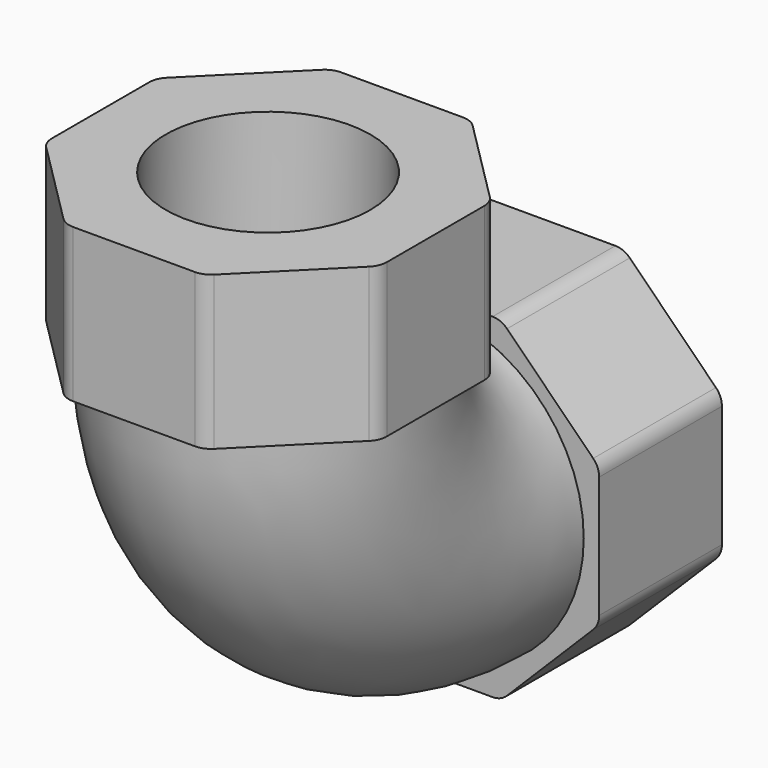
from build123d import *

# Parameters (mm, degrees)
F0_R     = 15
F0_R_2   = 10
F3_R     = 10
F4_DEPTH = 15
F5_R     = 15
F5_R_2   = 10
F6_DEPTH = 15


with BuildPart() as f2:
    # F2: sweep along a path in F1
    with BuildLine(Plane.YZ) as f2_path:
        ThreePointArc((-20, 20), (-14.1421356237, 5.8578643763), (0, 0))
    # F0 (on Front) → F2 (sweep)
    with BuildSketch(Plane.XZ):
        with Locations((-0.1311794548, 0.1967689097)):
            Circle(F0_R)
        Circle(F0_R_2, mode=Mode.SUBTRACT)
    sweep(path=f2_path.line)

    # F3 (on Front) → F4 (join)
    with BuildSketch(Plane.XZ):
        with BuildLine():
            Line((5.9544622317, 16.3753434763), (-5.9544622317, 16.3753434763))
            ThreePointArc((-5.9544622317, 16.3753434763), (-6.7198290964, 16.2231025413), (-7.368675794, 15.7895570387))
            Line((-7.368675794, 15.7895570387), (-15.7895570387, 7.368675794))
            ThreePointArc((-15.7895570387, 7.368675794), (-16.2231025413, 6.7198290964), (-16.3753434763, 5.9544622317))
            Line((-16.3753434763, 5.9544622317), (-16.3753434763, -5.9544622317))
            ThreePointArc((-16.3753434763, -5.9544622317), (-16.2231025413, -6.7198290964), (-15.7895570387, -7.368675794))
            Line((-15.7895570387, -7.368675794), (-7.368675794, -15.7895570387))
            ThreePointArc((-7.368675794, -15.7895570387), (-6.7198290964, -16.2231025413), (-5.9544622317, -16.3753434763))
            Line((-5.9544622317, -16.3753434763), (5.9544622317, -16.3753434763))
            ThreePointArc((5.9544622317, -16.3753434763), (6.7198290964, -16.2231025413), (7.368675794, -15.7895570387))
            Line((7.368675794, -15.7895570387), (15.7895570387, -7.368675794))
            ThreePointArc((15.7895570387, -7.368675794), (16.2231025413, -6.7198290964), (16.3753434763, -5.9544622317))
            Line((16.3753434763, -5.9544622317), (16.3753434763, 5.9544622317))
            ThreePointArc((16.3753434763, 5.9544622317), (16.2231025413, 6.7198290964), (15.7895570387, 7.368675794))
            Line((15.7895570387, 7.368675794), (7.368675794, 15.7895570387))
            ThreePointArc((7.368675794, 15.7895570387), (6.7198290964, 16.2231025413), (5.9544622317, 16.3753434763))
        make_face()
        Circle(F3_R, mode=Mode.SUBTRACT)
    extrude(amount=-F4_DEPTH)

    # F5 (on face) → F6 (join)
    with BuildSketch(Plane.XY.offset(20)):
        with BuildLine():
            Line((5.9544622317, -3.6246565237), (-5.9544622317, -3.6246565237))
            ThreePointArc((-5.9544622317, -3.6246565237), (-6.7198290964, -3.7768974587), (-7.368675794, -4.2104429613))
            Line((-7.368675794, -4.2104429613), (-15.7895570387, -12.631324206))
            ThreePointArc((-15.7895570387, -12.631324206), (-16.2231025413, -13.2801709036), (-16.3753434763, -14.0455377683))
            Line((-16.3753434763, -14.0455377683), (-16.3753434763, -25.9544622317))
            ThreePointArc((-16.3753434763, -25.9544622317), (-16.2231025413, -26.7198290964), (-15.7895570387, -27.368675794))
            Line((-15.7895570387, -27.368675794), (-7.368675794, -35.7895570387))
            ThreePointArc((-7.368675794, -35.7895570387), (-6.7198290964, -36.2231025413), (-5.9544622317, -36.3753434763))
            Line((-5.9544622317, -36.3753434763), (5.9544622317, -36.3753434763))
            ThreePointArc((5.9544622317, -36.3753434763), (6.7198290964, -36.2231025413), (7.368675794, -35.7895570387))
            Line((7.368675794, -35.7895570387), (15.7895570387, -27.368675794))
            ThreePointArc((15.7895570387, -27.368675794), (16.2231025413, -26.7198290964), (16.3753434763, -25.9544622317))
            Line((16.3753434763, -25.9544622317), (16.3753434763, -14.0455377683))
            ThreePointArc((16.3753434763, -14.0455377683), (16.2231025413, -13.2801709036), (15.7895570387, -12.631324206))
            Line((15.7895570387, -12.631324206), (7.368675794, -4.2104429613))
            ThreePointArc((7.368675794, -4.2104429613), (6.7198290964, -3.7768974587), (5.9544622317, -3.6246565237))
        make_face()
        with Locations((-0.1311794548, -19.8032310903)):
            Circle(F5_R, mode=Mode.SUBTRACT)
        with Locations((-0.1311794548, -19.8032310903)):
            Circle(F5_R)
        with Locations((0, -20)):
            Circle(F5_R_2, mode=Mode.SUBTRACT)
    extrude(amount=F6_DEPTH)


solid = f2.part
